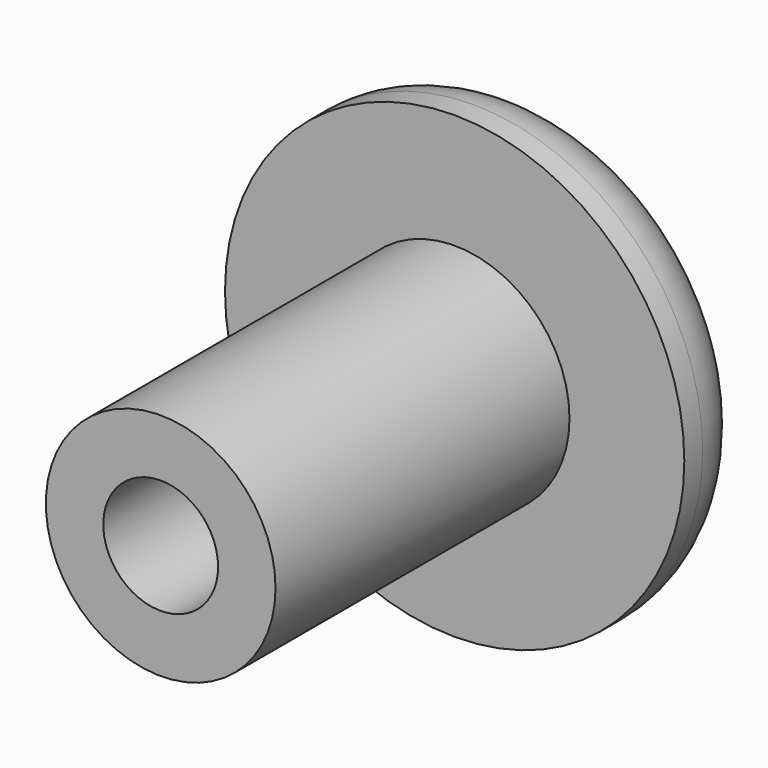
from build123d import *

# Parameters (mm, degrees)
F0_R     = 2.5
F0_R_2   = 1.25
F1_DEPTH = 10
F0_R_3   = 5
F2_DEPTH = 2
F3_R     = 1.5
F4_SIZE  = 1


with BuildPart() as f1:
    # F0 (on Front) → F1 (new body)
    with BuildSketch(Plane.XZ):
        Circle(F0_R)
        Circle(F0_R_2, mode=Mode.SUBTRACT)
    extrude(amount=F1_DEPTH)

    # F0 (on Front) → F2 (join)
    with BuildSketch(Plane.XZ):
        Circle(F0_R_3)
        Circle(F0_R, mode=Mode.SUBTRACT)
    extrude(amount=F2_DEPTH)

    # F3
    f3_edges = [f1.edges().sort_by_distance(p)[0] for p in [
        (-5, 0, 0),
    ]]
    fillet(f3_edges, radius=F3_R)

    # F4
    f4_edges = [f1.edges().sort_by_distance(p)[0] for p in [
        (-1.25, 0, 0),
    ]]
    chamfer(f4_edges, length=F4_SIZE)


solid = f1.part
